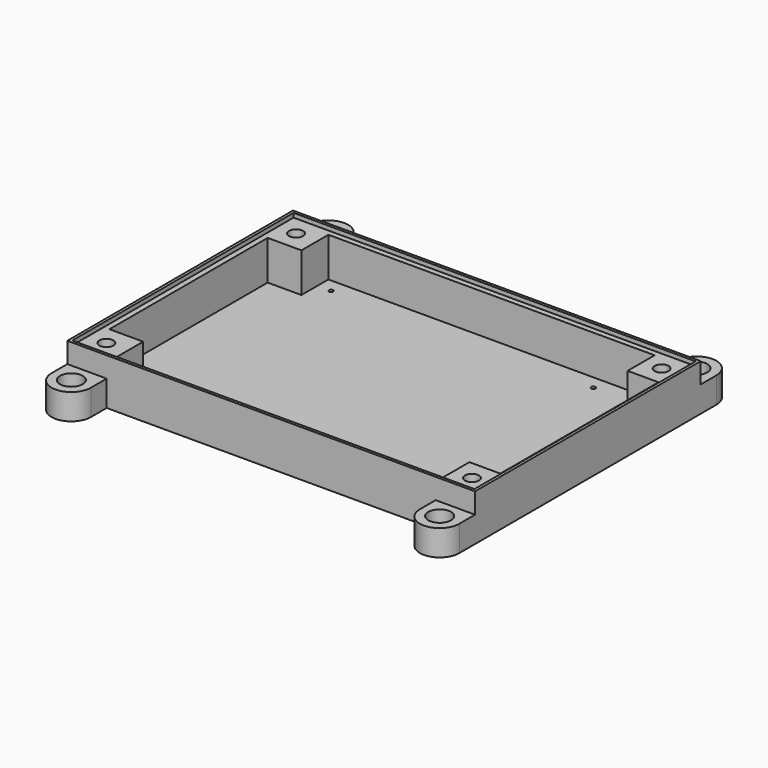
from build123d import *

# Parameters (mm, degrees)
CYLINDER034_R     = 0.75
CYLINDER034_DEPTH = 23
ARRAY041_X_COUNT  = 2
ARRAY041_X_PITCH  = 93.2688
ARRAY041_Y_COUNT  = 2
ARRAY041_Y_PITCH  = 80.5688
BOX023_W          = 139.06
BOX023_H          = 70.36
BOX023_DEPTH      = 16
CYLINDER033_R     = 5.4
CYLINDER033_DEPTH = 7.4
ARRAY040_X_COUNT  = 2
ARRAY040_X_PITCH  = 130.06
ARRAY040_Y_COUNT  = 2
ARRAY040_Y_PITCH  = 84.36
ARRAY039_X_COUNT  = 2
ARRAY039_X_PITCH  = 130.06
ARRAY039_Y_COUNT  = 2
ARRAY039_Y_PITCH  = 84.36
BOX022_W          = 116.06
BOX022_H          = 94.36
BOX022_DEPTH      = 10
CYLINDER025_R     = 1.5
CYLINDER025_DEPTH = 9
ARRAY032_X_COUNT  = 2
ARRAY032_X_PITCH  = 131.06
ARRAY032_Y_COUNT  = 2
ARRAY032_Y_PITCH  = 113.96
CYLINDER026_R     = 4.05
CYLINDER026_DEPTH = 5.4
ARRAY033_X_COUNT  = 2
ARRAY033_X_PITCH  = 131.06
ARRAY033_Y_COUNT  = 2
ARRAY033_Y_PITCH  = 113.96
CYLINDER024_R     = 1
CYLINDER024_DEPTH = 30
ARRAY031_X_COUNT  = 2
ARRAY031_X_PITCH  = 93.2688
ARRAY031_Y_COUNT  = 2
ARRAY031_Y_PITCH  = 80.5688
ARRAY029_X_COUNT  = 2
ARRAY029_X_PITCH  = 93.2688
ARRAY029_Y_COUNT  = 2
ARRAY029_Y_PITCH  = 80.5688
ARRAY028_X_COUNT  = 2
ARRAY028_X_PITCH  = 130.06
ARRAY028_Y_COUNT  = 2
ARRAY028_Y_PITCH  = 84.36
CYLINDER022_R     = 4.02
CYLINDER022_DEPTH = 7.4
ARRAY026_X_COUNT  = 2
ARRAY026_X_PITCH  = 130.06
ARRAY026_Y_COUNT  = 2
ARRAY026_Y_PITCH  = 84.36
CYLINDER018_R     = 4.05
CYLINDER018_DEPTH = 5.4
ARRAY021_X_COUNT  = 2
ARRAY021_X_PITCH  = 131.06
ARRAY021_Y_COUNT  = 2
ARRAY021_Y_PITCH  = 110.36
CYLINDER021_R     = 2.15
CYLINDER021_DEPTH = 3.8
ARRAY025_X_COUNT  = 2
ARRAY025_X_PITCH  = 130.06
ARRAY025_Y_COUNT  = 2
ARRAY025_Y_PITCH  = 84.36
CYLINDER020_R     = 2.5
CYLINDER020_DEPTH = 40
ARRAY024_X_COUNT  = 2
ARRAY024_X_PITCH  = 130.06
ARRAY024_Y_COUNT  = 2
ARRAY024_Y_PITCH  = 84.36
CYLINDER019_R     = 2.5
CYLINDER019_DEPTH = 10
ARRAY022_X_COUNT  = 2
ARRAY022_X_PITCH  = 131.06
ARRAY022_Y_COUNT  = 2
ARRAY022_Y_PITCH  = 110.36
ARRAY020_X_COUNT  = 2
ARRAY020_X_PITCH  = 131.06
ARRAY020_Y_COUNT  = 2
ARRAY020_Y_PITCH  = 110.36
CYLINDER017_R     = 3.05
CYLINDER017_DEPTH = 3
ARRAY018_X_COUNT  = 2
ARRAY018_X_PITCH  = 93.2688
ARRAY018_Y_COUNT  = 2
ARRAY018_Y_PITCH  = 80.5688
CYLINDER016_R     = 1
CYLINDER016_DEPTH = 30
ARRAY017_X_COUNT  = 2
ARRAY017_X_PITCH  = 93.2688
ARRAY017_Y_COUNT  = 2
ARRAY017_Y_PITCH  = 80.5688
BOX016_W          = 100
BOX016_H          = 94.36
BOX016_DEPTH      = 10
ARRAY014_X_COUNT  = 2
ARRAY014_X_PITCH  = 131.06
ARRAY014_Y_COUNT  = 2
ARRAY014_Y_PITCH  = 110.36
CYLINDER014_R     = 2.2
CYLINDER014_DEPTH = 4
ARRAY015_X_COUNT  = 2
ARRAY015_X_PITCH  = 131.06
ARRAY015_Y_COUNT  = 2
ARRAY015_Y_PITCH  = 110.36
CYLINDER013_R     = 1.25
CYLINDER013_DEPTH = 10
ARRAY013_X_COUNT  = 2
ARRAY013_X_PITCH  = 131.06
ARRAY013_Y_COUNT  = 2
ARRAY013_Y_PITCH  = 110.36
BOX015_W          = 14
BOX015_H          = 7
BOX015_DEPTH      = 9.2
CYLINDER012_R     = 7
CYLINDER012_DEPTH = 9.2
ARRAY010_X_COUNT  = 2
ARRAY010_X_PITCH  = 131.06
BOX014_W          = 14
BOX014_H          = 7
BOX014_DEPTH      = 9.2
CYLINDER011_R     = 7
CYLINDER011_DEPTH = 9.2
ARRAY011_X_COUNT  = 2
ARRAY011_X_PITCH  = 131.06
CYLINDER_R        = 1.75
CYLINDER_DEPTH    = 40
CYLINDER001_R     = 4.5
CYLINDER001_DEPTH = 1
ARRAY001_X_COUNT  = 2
ARRAY001_X_PITCH  = 130.06
ARRAY001_Y_COUNT  = 2
ARRAY001_Y_PITCH  = 84.36
BOX004_W          = 11
BOX004_H          = 98
BOX004_DEPTH      = 15
BOX003_W          = 7
BOX003_H          = 10
BOX003_DEPTH      = 9
ARRAY_X_COUNT     = 2
ARRAY_X_PITCH     = 77.06
ARRAY_Y_COUNT     = 2
ARRAY_Y_PITCH     = 90.36
BOX002_W          = 118.06
BOX002_H          = 94.36
BOX002_DEPTH      = 12
BOX_W             = 145.06
BOX_H             = 100.36
BOX_DEPTH         = 15
BOX008_W          = 145.06
BOX008_H          = 1
BOX008_DEPTH      = 2.5
ARRAY004_Y_COUNT  = 2
ARRAY004_Y_PITCH  = 99.36
BOX009_W          = 1
BOX009_H          = 100.36
BOX009_DEPTH      = 2.5
ARRAY005_X_COUNT  = 2
ARRAY005_X_PITCH  = 144.06
BOX019_W          = 12
BOX019_H          = 98
BOX019_DEPTH      = 10
ARRAY023_X_COUNT  = 2
ARRAY023_X_PITCH  = 130
CYLINDER023_R     = 3.05
CYLINDER023_DEPTH = 3
ARRAY030_X_COUNT  = 2
ARRAY030_X_PITCH  = 93.2688
ARRAY030_Y_COUNT  = 2
ARRAY030_Y_PITCH  = 80.5688
BOX020_W          = 14
BOX020_H          = 9
BOX020_DEPTH      = 9.2
CYLINDER027_R     = 7
CYLINDER027_DEPTH = 9.2
ARRAY034_X_COUNT  = 2
ARRAY034_X_PITCH  = 131.06
BOX021_W          = 14
BOX021_H          = 9
BOX021_DEPTH      = 9.2
CYLINDER028_R     = 7
CYLINDER028_DEPTH = 9.2
ARRAY035_X_COUNT  = 2
ARRAY035_X_PITCH  = 131.06
CYLINDER029_R     = 1
CYLINDER029_DEPTH = 1
ARRAY036_X_COUNT  = 2
ARRAY036_X_PITCH  = 93.2688
ARRAY036_Y_COUNT  = 2
ARRAY036_Y_PITCH  = 80.5688
CYLINDER030_R     = 0.75
CYLINDER030_DEPTH = 14
ARRAY037_X_COUNT  = 2
ARRAY037_X_PITCH  = 93.2688
ARRAY037_Y_COUNT  = 2
ARRAY037_Y_PITCH  = 80.5688
ARRAY038_X_COUNT  = 2
ARRAY038_X_PITCH  = 93.2688
ARRAY038_Y_COUNT  = 2
ARRAY038_Y_PITCH  = 80.5688


with BuildPart() as array_holes_pcb_bottom_case004:
    # Cylinder034 → Cylinder034 (new body)
    with BuildSketch(Plane(origin=(15.8956, 11.8956, -6), x_dir=(1, 0, 0), z_dir=(0, 0, 1))):
        Circle(CYLINDER034_R)
    extrude(amount=CYLINDER034_DEPTH)

    # Array041 X: array_holes_PCB_bottom_case004 ×2


with BuildPart() as array_holes_pcb_bottom_case004_1:
    add(array_holes_pcb_bottom_case004.part)
    with Locations(*[(i * ARRAY041_X_PITCH, 0, 0) for i in range(1, ARRAY041_X_COUNT)]):
        add(array_holes_pcb_bottom_case004.part)

    # Array041 Y: array_holes_PCB_bottom_case004 ×2


with BuildPart() as array_holes_pcb_bottom_case004_2:
    add(array_holes_pcb_bottom_case004_1.part)
    with Locations(*[(0, i * ARRAY041_Y_PITCH, 0) for i in range(1, ARRAY041_Y_COUNT)]):
        add(array_holes_pcb_bottom_case004_1.part)


with BuildPart() as cube002:
    # Box023 → Box023 (new body)
    with BuildSketch(Plane(origin=(-1, 15, 1), x_dir=(1, 0, 0), z_dir=(0, 0, 1))):
        with Locations((69.53, 35.18)):
            Rectangle(BOX023_W, BOX023_H)
    extrude(amount=BOX023_DEPTH)


with BuildPart() as array040:
    # Cylinder033 → Cylinder033 (new body)
    with BuildSketch(Plane(origin=(3.5, 8, -3), x_dir=(1, 0, 0), z_dir=(0, 0, 1))):
        Circle(CYLINDER033_R)
    extrude(amount=CYLINDER033_DEPTH)

    # Array040 X: Array040 ×2


with BuildPart() as array040_1:
    add(array040.part)
    with Locations(*[(i * ARRAY040_X_PITCH, 0, 0) for i in range(1, ARRAY040_X_COUNT)]):
        add(array040.part)

    # Array040 Y: Array040 ×2


with BuildPart() as array040_2:
    add(array040_1.part)
    with Locations(*[(0, i * ARRAY040_Y_PITCH, 0) for i in range(1, ARRAY040_Y_COUNT)]):
        add(array040_1.part)


with BuildPart() as array039:
    # Cone007 → Cone007 (revolve)
    with BuildSketch(Plane(origin=(3.5, 8, 4.4), x_dir=(1, 0, 0), z_dir=(0, -1, 0))):
        Polygon((0, 0), (5.4, 0), (4.02, 1), (0, 1), align=None)
    revolve(axis=Axis((3.5, 8, 4.4), (0, 0, 1)))

    # Array039 X: Array039 ×2


with BuildPart() as array039_1:
    add(array039.part)
    with Locations(*[(i * ARRAY039_X_PITCH, 0, 0) for i in range(1, ARRAY039_X_COUNT)]):
        add(array039.part)

    # Array039 Y: Array039 ×2


with BuildPart() as array039_2:
    add(array039_1.part)
    with Locations(*[(0, i * ARRAY039_Y_PITCH, 0) for i in range(1, ARRAY039_Y_COUNT)]):
        add(array039_1.part)


with BuildPart() as cube001:
    # Box022 → Box022 (new body)
    with BuildSketch(Plane(origin=(11, 3, 1), x_dir=(1, 0, 0), z_dir=(0, 0, 1))):
        with Locations((58.03, 47.18)):
            Rectangle(BOX022_W, BOX022_H)
    extrude(amount=BOX022_DEPTH)


with BuildPart() as obj1:
    # Cylinder025 → Cylinder025 (new body)
    with BuildSketch(Plane(origin=(2.87, -6.8, -2), x_dir=(1, 0, 0), z_dir=(0, 0, 1))):
        Circle(CYLINDER025_R)
    extrude(amount=CYLINDER025_DEPTH)

    # Array032 X: obj1_2


with BuildPart() as obj1_1:
    add(obj1.part)
    with Locations(*[(i * ARRAY032_X_PITCH, 0, 0) for i in range(1, ARRAY032_X_COUNT)]):
        add(obj1.part)

    # Array032 Y: obj1_2


with BuildPart() as obj1_2:
    add(obj1_1.part)
    with Locations(*[(0, i * ARRAY032_Y_PITCH, 0) for i in range(1, ARRAY032_Y_COUNT)]):
        add(obj1_1.part)


with BuildPart() as obj2:
    # Cylinder026 → Cylinder026 (new body)
    with BuildSketch(Plane(origin=(2.87, -6.8, 3.9), x_dir=(1, 0, 0), z_dir=(0, 0, 1))):
        Circle(CYLINDER026_R)
    extrude(amount=CYLINDER026_DEPTH)

    # Array033 X: obj2_2


with BuildPart() as obj2_1:
    add(obj2.part)
    with Locations(*[(i * ARRAY033_X_PITCH, 0, 0) for i in range(1, ARRAY033_X_COUNT)]):
        add(obj2.part)

    # Array033 Y: obj2_2


with BuildPart() as obj2_2:
    add(obj2_1.part)
    with Locations(*[(0, i * ARRAY033_Y_PITCH, 0) for i in range(1, ARRAY033_Y_COUNT)]):
        add(obj2_1.part)


with BuildPart() as array_holes_pcb_bottom_case001:
    # Cylinder024 → Cylinder024 (new body)
    with BuildSketch(Plane(origin=(15.8956, 9.8956, -12), x_dir=(1, 0, 0), z_dir=(0, 0, 1))):
        Circle(CYLINDER024_R)
    extrude(amount=CYLINDER024_DEPTH)

    # Array031 X: array_holes_PCB_bottom_case001 ×2


with BuildPart() as array_holes_pcb_bottom_case001_1:
    add(array_holes_pcb_bottom_case001.part)
    with Locations(*[(i * ARRAY031_X_PITCH, 0, 0) for i in range(1, ARRAY031_X_COUNT)]):
        add(array_holes_pcb_bottom_case001.part)

    # Array031 Y: array_holes_PCB_bottom_case001 ×2


with BuildPart() as array_holes_pcb_bottom_case001_2:
    add(array_holes_pcb_bottom_case001_1.part)
    with Locations(*[(0, i * ARRAY031_Y_PITCH, 0) for i in range(1, ARRAY031_Y_COUNT)]):
        add(array_holes_pcb_bottom_case001_1.part)


with BuildPart() as array029:
    # Cone005 → Cone005 (revolve)
    with BuildSketch(Plane(origin=(15.8956, 9.8956, 1.8), x_dir=(1, 0, 0), z_dir=(0, -1, 0))):
        Polygon((0, 0), (3.05, 0), (1, 0.5), (0, 0.5), align=None)
    revolve(axis=Axis((15.8956, 9.8956, 1.8), (0, 0, 1)))

    # Array029 X: Array029 ×2


with BuildPart() as array029_1:
    add(array029.part)
    with Locations(*[(i * ARRAY029_X_PITCH, 0, 0) for i in range(1, ARRAY029_X_COUNT)]):
        add(array029.part)

    # Array029 Y: Array029 ×2


with BuildPart() as array029_2:
    add(array029_1.part)
    with Locations(*[(0, i * ARRAY029_Y_PITCH, 0) for i in range(1, ARRAY029_Y_COUNT)]):
        add(array029_1.part)


with BuildPart() as array028:
    # Cone004 → Cone004 (revolve)
    with BuildSketch(Plane(origin=(3.5, 8, 7.4), x_dir=(1, 0, 0), z_dir=(0, -1, 0))):
        Polygon((0, 0), (4.02, 0), (2.5, 1), (0, 1), align=None)
    revolve(axis=Axis((3.5, 8, 7.4), (0, 0, 1)))

    # Array028 X: Array028 ×2


with BuildPart() as array028_1:
    add(array028.part)
    with Locations(*[(i * ARRAY028_X_PITCH, 0, 0) for i in range(1, ARRAY028_X_COUNT)]):
        add(array028.part)

    # Array028 Y: Array028 ×2


with BuildPart() as array028_2:
    add(array028_1.part)
    with Locations(*[(0, i * ARRAY028_Y_PITCH, 0) for i in range(1, ARRAY028_Y_COUNT)]):
        add(array028_1.part)


with BuildPart() as array026:
    # Cylinder022 → Cylinder022 (new body)
    with BuildSketch(Plane(origin=(3.5, 8, 0), x_dir=(1, 0, 0), z_dir=(0, 0, 1))):
        Circle(CYLINDER022_R)
    extrude(amount=CYLINDER022_DEPTH)

    # Array026 X: Array026 ×2


with BuildPart() as array026_1:
    add(array026.part)
    with Locations(*[(i * ARRAY026_X_PITCH, 0, 0) for i in range(1, ARRAY026_X_COUNT)]):
        add(array026.part)

    # Array026 Y: Array026 ×2


with BuildPart() as array026_2:
    add(array026_1.part)
    with Locations(*[(0, i * ARRAY026_Y_PITCH, 0) for i in range(1, ARRAY026_Y_COUNT)]):
        add(array026_1.part)


with BuildPart() as obj3:
    # Cylinder018 → Cylinder018 (new body)
    with BuildSketch(Plane(origin=(2.87, -4.8, 3.9), x_dir=(1, 0, 0), z_dir=(0, 0, 1))):
        Circle(CYLINDER018_R)
    extrude(amount=CYLINDER018_DEPTH)

    # Array021 X: obj3_2


with BuildPart() as obj3_1:
    add(obj3.part)
    with Locations(*[(i * ARRAY021_X_PITCH, 0, 0) for i in range(1, ARRAY021_X_COUNT)]):
        add(obj3.part)

    # Array021 Y: obj3_2


with BuildPart() as obj3_2:
    add(obj3_1.part)
    with Locations(*[(0, i * ARRAY021_Y_PITCH, 0) for i in range(1, ARRAY021_Y_COUNT)]):
        add(obj3_1.part)


with BuildPart() as array025:
    # Cylinder021 → Cylinder021 (new body)
    with BuildSketch(Plane(origin=(3.5, 8, 0), x_dir=(1, 0, 0), z_dir=(0, 0, 1))):
        Circle(CYLINDER021_R)
    extrude(amount=CYLINDER021_DEPTH)

    # Array025 X: Array025 ×2


with BuildPart() as array025_1:
    add(array025.part)
    with Locations(*[(i * ARRAY025_X_PITCH, 0, 0) for i in range(1, ARRAY025_X_COUNT)]):
        add(array025.part)

    # Array025 Y: Array025 ×2


with BuildPart() as array025_2:
    add(array025_1.part)
    with Locations(*[(0, i * ARRAY025_Y_PITCH, 0) for i in range(1, ARRAY025_Y_COUNT)]):
        add(array025_1.part)


with BuildPart() as array024:
    # Cylinder020 → Cylinder020 (new body)
    with BuildSketch(Plane(origin=(3.5, 8, -16), x_dir=(1, 0, 0), z_dir=(0, 0, 1))):
        Circle(CYLINDER020_R)
    extrude(amount=CYLINDER020_DEPTH)

    # Array024 X: Array024 ×2


with BuildPart() as array024_1:
    add(array024.part)
    with Locations(*[(i * ARRAY024_X_PITCH, 0, 0) for i in range(1, ARRAY024_X_COUNT)]):
        add(array024.part)

    # Array024 Y: Array024 ×2


with BuildPart() as array024_2:
    add(array024_1.part)
    with Locations(*[(0, i * ARRAY024_Y_PITCH, 0) for i in range(1, ARRAY024_Y_COUNT)]):
        add(array024_1.part)


with BuildPart() as obj4:
    # Cylinder019 → Cylinder019 (new body)
    with BuildSketch(Plane(origin=(2.87, -4.8, -2), x_dir=(1, 0, 0), z_dir=(0, 0, 1))):
        Circle(CYLINDER019_R)
    extrude(amount=CYLINDER019_DEPTH)

    # Array022 X: obj4_2


with BuildPart() as obj4_1:
    add(obj4.part)
    with Locations(*[(i * ARRAY022_X_PITCH, 0, 0) for i in range(1, ARRAY022_X_COUNT)]):
        add(obj4.part)

    # Array022 Y: obj4_2


with BuildPart() as obj4_2:
    add(obj4_1.part)
    with Locations(*[(0, i * ARRAY022_Y_PITCH, 0) for i in range(1, ARRAY022_Y_COUNT)]):
        add(obj4_1.part)


with BuildPart() as obj5:
    # Cone003 → Cone003 (revolve)
    with BuildSketch(Plane(origin=(2.87, -4.8, 2.98), x_dir=(1, 0, 0), z_dir=(0, -1, 0))):
        Polygon((0, 0), (1.25, 0), (2.9, 1.8), (0, 1.8), align=None)
    revolve(axis=Axis((2.87, -4.8, 2.98), (0, 0, 1)))

    # Array020 X: obj5_2


with BuildPart() as obj5_1:
    add(obj5.part)
    with Locations(*[(i * ARRAY020_X_PITCH, 0, 0) for i in range(1, ARRAY020_X_COUNT)]):
        add(obj5.part)

    # Array020 Y: obj5_2


with BuildPart() as obj5_2:
    add(obj5_1.part)
    with Locations(*[(0, i * ARRAY020_Y_PITCH, 0) for i in range(1, ARRAY020_Y_COUNT)]):
        add(obj5_1.part)


with BuildPart() as array_holes_complementary_pcb:
    # Cylinder017 → Cylinder017 (new body)
    with BuildSketch(Plane(origin=(15.8956, 9.8956, 0), x_dir=(1, 0, 0), z_dir=(0, 0, 1))):
        Circle(CYLINDER017_R)
    extrude(amount=CYLINDER017_DEPTH)

    # Array018 X: array_holes_complementary_PCB ×2


with BuildPart() as array_holes_complementary_pcb_1:
    add(array_holes_complementary_pcb.part)
    with Locations(*[(i * ARRAY018_X_PITCH, 0, 0) for i in range(1, ARRAY018_X_COUNT)]):
        add(array_holes_complementary_pcb.part)

    # Array018 Y: array_holes_complementary_PCB ×2


with BuildPart() as array_holes_complementary_pcb_2:
    add(array_holes_complementary_pcb_1.part)
    with Locations(*[(0, i * ARRAY018_Y_PITCH, 0) for i in range(1, ARRAY018_Y_COUNT)]):
        add(array_holes_complementary_pcb_1.part)


with BuildPart() as array_holes_pcb_bottom_case:
    # Cylinder016 → Cylinder016 (new body)
    with BuildSketch(Plane(origin=(15.8956, 9.8956, -12), x_dir=(1, 0, 0), z_dir=(0, 0, 1))):
        Circle(CYLINDER016_R)
    extrude(amount=CYLINDER016_DEPTH)

    # Array017 X: array_holes_PCB_bottom_case ×2


with BuildPart() as array_holes_pcb_bottom_case_1:
    add(array_holes_pcb_bottom_case.part)
    with Locations(*[(i * ARRAY017_X_PITCH, 0, 0) for i in range(1, ARRAY017_X_COUNT)]):
        add(array_holes_pcb_bottom_case.part)

    # Array017 Y: array_holes_PCB_bottom_case ×2


with BuildPart() as array_holes_pcb_bottom_case_2:
    add(array_holes_pcb_bottom_case_1.part)
    with Locations(*[(0, i * ARRAY017_Y_PITCH, 0) for i in range(1, ARRAY017_Y_COUNT)]):
        add(array_holes_pcb_bottom_case_1.part)


with BuildPart() as erase_supports_bottom:
    # Box016 → Box016 (new body)
    with BuildSketch(Plane(origin=(11, 3, 3), x_dir=(1, 0, 0), z_dir=(0, 0, 1))):
        with Locations((50, 47.18)):
            Rectangle(BOX016_W, BOX016_H)
    extrude(amount=BOX016_DEPTH)


with BuildPart() as obj6:
    # Cone001 → Cone001 (revolve)
    with BuildSketch(Plane(origin=(2.87, -4.8, 2.98), x_dir=(1, 0, 0), z_dir=(0, -1, 0))):
        Polygon((0, 0), (1.25, 0), (2.9, 1.8), (0, 1.8), align=None)
    revolve(axis=Axis((2.87, -4.8, 2.98), (0, 0, 1)))

    # Array014 X: obj6_2


with BuildPart() as obj6_1:
    add(obj6.part)
    with Locations(*[(i * ARRAY014_X_PITCH, 0, 0) for i in range(1, ARRAY014_X_COUNT)]):
        add(obj6.part)

    # Array014 Y: obj6_2


with BuildPart() as obj6_2:
    add(obj6_1.part)
    with Locations(*[(0, i * ARRAY014_Y_PITCH, 0) for i in range(1, ARRAY014_Y_COUNT)]):
        add(obj6_1.part)


with BuildPart() as fusion013:
    # Cylinder014 → Cylinder014 (new body)
    with BuildSketch(Plane(origin=(2.87, -4.8, 6.48), x_dir=(1, 0, 0), z_dir=(0, 0, 1))):
        Circle(CYLINDER014_R)
    extrude(amount=CYLINDER014_DEPTH)

    # Array015 X: Fusion013 ×2


with BuildPart() as fusion013_1:
    add(fusion013.part)
    with Locations(*[(i * ARRAY015_X_PITCH, 0, 0) for i in range(1, ARRAY015_X_COUNT)]):
        add(fusion013.part)

    # Array015 Y: Fusion013 ×2


with BuildPart() as fusion013_2:
    add(fusion013_1.part)
    with Locations(*[(0, i * ARRAY015_Y_PITCH, 0) for i in range(1, ARRAY015_Y_COUNT)]):
        add(fusion013_1.part)

    # Fusion013: union obj6
    add(obj6_2.part)


with BuildPart() as obj7:
    # Cylinder013 → Cylinder013 (new body)
    with BuildSketch(Plane(origin=(2.87, -4.8, -2), x_dir=(1, 0, 0), z_dir=(0, 0, 1))):
        Circle(CYLINDER013_R)
    extrude(amount=CYLINDER013_DEPTH)

    # Array013 X: obj7_2


with BuildPart() as obj7_1:
    add(obj7.part)
    with Locations(*[(i * ARRAY013_X_PITCH, 0, 0) for i in range(1, ARRAY013_X_COUNT)]):
        add(obj7.part)

    # Array013 Y: obj7_2


with BuildPart() as obj7_2:
    add(obj7_1.part)
    with Locations(*[(0, i * ARRAY013_Y_PITCH, 0) for i in range(1, ARRAY013_Y_COUNT)]):
        add(obj7_1.part)


with BuildPart() as cube_fix2:
    # Box015 → Box015 (new body)
    with BuildSketch(Plane(origin=(-4, 98.36, 0), x_dir=(1, 0, 0), z_dir=(0, 0, 1))):
        with Locations((7, 3.5)):
            Rectangle(BOX015_W, BOX015_H)
    extrude(amount=BOX015_DEPTH)


with BuildPart() as array_fix2:
    # Cylinder012 → Cylinder012 (new body)
    with BuildSketch(Plane(origin=(3, 105.36, 0), x_dir=(1, 0, 0), z_dir=(0, 0, 1))):
        Circle(CYLINDER012_R)
    extrude(amount=CYLINDER012_DEPTH)

    # Fusion011: union cube_fix2
    add(cube_fix2.part)

    # Array010 X: array_fix2 ×2


with BuildPart() as array_fix2_1:
    add(array_fix2.part)
    with Locations(*[(i * ARRAY010_X_PITCH, 0, 0) for i in range(1, ARRAY010_X_COUNT)]):
        add(array_fix2.part)


with BuildPart() as cube_fix1:
    # Box014 → Box014 (new body)
    with BuildSketch(Plane(origin=(-4, -5, 0), x_dir=(1, 0, 0), z_dir=(0, 0, 1))):
        with Locations((7, 3.5)):
            Rectangle(BOX014_W, BOX014_H)
    extrude(amount=BOX014_DEPTH)


with BuildPart() as array_fix1:
    # Cylinder011 → Cylinder011 (new body)
    with BuildSketch(Plane(origin=(3, -5, 0), x_dir=(1, 0, 0), z_dir=(0, 0, 1))):
        Circle(CYLINDER011_R)
    extrude(amount=CYLINDER011_DEPTH)

    # Fusion010: union cube_fix1
    add(cube_fix1.part)

    # Array011 X: array_fix1 ×2


with BuildPart() as array_fix1_1:
    add(array_fix1.part)
    with Locations(*[(i * ARRAY011_X_PITCH, 0, 0) for i in range(1, ARRAY011_X_COUNT)]):
        add(array_fix1.part)


with BuildPart() as cone:
    # Cone → Cone (revolve)
    with BuildSketch(Plane(origin=(3.5, 14, 1), x_dir=(1, 0, 0), z_dir=(0, -1, 0))):
        Polygon((0, 0), (4.5, 0), (1.75, 3), (0, 3), align=None)
    revolve(axis=Axis((3.5, 14, 1), (0, 0, 1)))


with BuildPart() as fusion002:
    # Cylinder → Cylinder (new body)
    with BuildSketch(Plane(origin=(3.5, 14, -16), x_dir=(1, 0, 0), z_dir=(0, 0, 1))):
        Circle(CYLINDER_R)
    extrude(amount=CYLINDER_DEPTH)

    # Fusion002: union Cone
    add(cone.part)


with BuildPart() as array_holes_bottom_case:
    # Cylinder001 → Cylinder001 (new body)
    with BuildSketch(Plane(origin=(3.5, 14, 0), x_dir=(1, 0, 0), z_dir=(0, 0, 1))):
        Circle(CYLINDER001_R)
    extrude(amount=CYLINDER001_DEPTH)

    # Fusion003: union Fusion002
    add(fusion002.part)


with BuildPart() as array_holes_bottom_case_1:
    # Fusion003 placement: moved
    add(array_holes_bottom_case.part.moved(Location((0, -6, 0))))

    # Array001 X: array_holes_bottom_case ×2


with BuildPart() as array_holes_bottom_case_2:
    add(array_holes_bottom_case_1.part)
    with Locations(*[(i * ARRAY001_X_PITCH, 0, 0) for i in range(1, ARRAY001_X_COUNT)]):
        add(array_holes_bottom_case_1.part)

    # Array001 Y: array_holes_bottom_case ×2


with BuildPart() as array_holes_bottom_case_3:
    add(array_holes_bottom_case_2.part)
    with Locations(*[(0, i * ARRAY001_Y_PITCH, 0) for i in range(1, ARRAY001_Y_COUNT)]):
        add(array_holes_bottom_case_2.part)


with BuildPart() as correcting_pcb_support:
    # Box004 → Box004 (new body)
    with BuildSketch(Plane.XY):
        with Locations((5.5, 49)):
            Rectangle(BOX004_W, BOX004_H)
    extrude(amount=BOX004_DEPTH)


with BuildPart() as array_bottom_case_support_master:
    # Box003 → Box003 (new body)
    with BuildSketch(Plane(origin=(18.5, 0, 0), x_dir=(1, 0, 0), z_dir=(0, 0, 1))):
        with Locations((3.5, 5)):
            Rectangle(BOX003_W, BOX003_H)
    extrude(amount=BOX003_DEPTH)

    # Array X: array_bottom_case_support_master ×2


with BuildPart() as array_bottom_case_support_master_1:
    add(array_bottom_case_support_master.part)
    with Locations(*[(i * ARRAY_X_PITCH, 0, 0) for i in range(1, ARRAY_X_COUNT)]):
        add(array_bottom_case_support_master.part)

    # Array Y: array_bottom_case_support_master ×2


with BuildPart() as array_bottom_case_support_master_2:
    add(array_bottom_case_support_master_1.part)
    with Locations(*[(0, i * ARRAY_Y_PITCH, 0) for i in range(1, ARRAY_Y_COUNT)]):
        add(array_bottom_case_support_master_1.part)


with BuildPart() as bottom_case_master_emptying:
    # Box002 → Box002 (new body)
    with BuildSketch(Plane(origin=(9, 3, 3), x_dir=(1, 0, 0), z_dir=(0, 0, 1))):
        with Locations((59.03, 47.18)):
            Rectangle(BOX002_W, BOX002_H)
    extrude(amount=BOX002_DEPTH)


with BuildPart() as bottom_case:
    # Box → Box (new body)
    with BuildSketch(Plane(origin=(-4, 0, 0), x_dir=(1, 0, 0), z_dir=(0, 0, 1))):
        with Locations((72.53, 50.18)):
            Rectangle(BOX_W, BOX_H)
    extrude(amount=BOX_DEPTH)

    # Cut: cut bottom_case_master_emptying
    add(bottom_case_master_emptying.part, mode=Mode.SUBTRACT)

    # Fusion: union array_bottom_case_support_master
    add(array_bottom_case_support_master_2.part)

    # Fusion001: union correcting_PCB_support
    add(correcting_pcb_support.part)

    # Cut001: cut array_holes_bottom_case
    add(array_holes_bottom_case_3.part, mode=Mode.SUBTRACT)


with BuildPart() as fusion005:
    # Box008 → Box008 (new body)
    with BuildSketch(Plane(origin=(-4, 0, 14), x_dir=(1, 0, 0), z_dir=(0, 0, 1))):
        with Locations((72.53, 0.5)):
            Rectangle(BOX008_W, BOX008_H)
    extrude(amount=BOX008_DEPTH)

    # Array004 Y: Fusion005 ×2


with BuildPart() as fusion005_1:
    add(fusion005.part)
    with Locations(*[(0, i * ARRAY004_Y_PITCH, 0) for i in range(1, ARRAY004_Y_COUNT)]):
        add(fusion005.part)

    # Fusion005: union bottom_case
    add(bottom_case.part)


with BuildPart() as cut019:
    # Box009 → Box009 (new body)
    with BuildSketch(Plane(origin=(-4, 0, 14), x_dir=(1, 0, 0), z_dir=(0, 0, 1))):
        with Locations((0.5, 50.18)):
            Rectangle(BOX009_W, BOX009_H)
    extrude(amount=BOX009_DEPTH)

    # Array005 X: Cut019 ×2


with BuildPart() as cut019_1:
    add(cut019.part)
    with Locations(*[(i * ARRAY005_X_PITCH, 0, 0) for i in range(1, ARRAY005_X_COUNT)]):
        add(cut019.part)

    # Fusion006: union Fusion005
    add(fusion005_1.part)

    # Fusion012: union array_fix2, array_fix1
    add(array_fix2_1.part)
    add(array_fix1_1.part)

    # Cut012: cut obj7
    add(obj7_2.part, mode=Mode.SUBTRACT)

    # Cut013: cut Fusion013
    add(fusion013_2.part, mode=Mode.SUBTRACT)

    # Cut014: cut erase_supports_bottom
    add(erase_supports_bottom.part, mode=Mode.SUBTRACT)

    # Cut017: cut array_holes_PCB_bottom_case
    add(array_holes_pcb_bottom_case_2.part, mode=Mode.SUBTRACT)

    # Cut018: cut array_holes_complementary_PCB
    add(array_holes_complementary_pcb_2.part, mode=Mode.SUBTRACT)

    # Fusion014: union obj5
    add(obj5_2.part)

    # Fusion015: union obj3
    add(obj3_2.part)

    # Cut019: cut obj4
    add(obj4_2.part, mode=Mode.SUBTRACT)


with BuildPart() as bottom_case_finished:
    # Box019 → Box019 (new body)
    with BuildSketch(Plane(origin=(-2, 0, 0), x_dir=(1, 0, 0), z_dir=(0, 0, 1))):
        with Locations((6, 49)):
            Rectangle(BOX019_W, BOX019_H)
    extrude(amount=BOX019_DEPTH)

    # Array023 X: bottom_case_finished ×2


with BuildPart() as bottom_case_finished_1:
    add(bottom_case_finished.part)
    with Locations(*[(i * ARRAY023_X_PITCH, 0, 0) for i in range(1, ARRAY023_X_COUNT)]):
        add(bottom_case_finished.part)

    # Fusion016: union Cut019
    add(cut019_1.part)

    # Cut020: cut Array024
    add(array024_2.part, mode=Mode.SUBTRACT)

    # Cut021: cut Array025
    add(array025_2.part, mode=Mode.SUBTRACT)

    # Cut022: cut obj3
    add(obj3_2.part, mode=Mode.SUBTRACT)

    # Cut023: cut Array026
    add(array026_2.part, mode=Mode.SUBTRACT)

    # Cut025: cut Array028
    add(array028_2.part, mode=Mode.SUBTRACT)

    # Cut026: cut Array029
    add(array029_2.part, mode=Mode.SUBTRACT)


with BuildPart() as cut027:
    # Cylinder023 → Cylinder023 (new body)
    with BuildSketch(Plane(origin=(15.8956, 9.8956, 0), x_dir=(1, 0, 0), z_dir=(0, 0, 1))):
        Circle(CYLINDER023_R)
    extrude(amount=CYLINDER023_DEPTH)

    # Array030 X: Cut027 ×2


with BuildPart() as cut027_1:
    add(cut027.part)
    with Locations(*[(i * ARRAY030_X_PITCH, 0, 0) for i in range(1, ARRAY030_X_COUNT)]):
        add(cut027.part)

    # Array030 Y: Cut027 ×2


with BuildPart() as cut027_2:
    add(cut027_1.part)
    with Locations(*[(0, i * ARRAY030_Y_PITCH, 0) for i in range(1, ARRAY030_Y_COUNT)]):
        add(cut027_1.part)

    # Fusion017: union bottom_case_finished
    add(bottom_case_finished_1.part)

    # Cut027: cut array_holes_PCB_bottom_case001
    add(array_holes_pcb_bottom_case001_2.part, mode=Mode.SUBTRACT)


with BuildPart() as cube_fix003:
    # Box020 → Box020 (new body)
    with BuildSketch(Plane(origin=(-4, 98.36, 0), x_dir=(1, 0, 0), z_dir=(0, 0, 1))):
        with Locations((7, 4.5)):
            Rectangle(BOX020_W, BOX020_H)
    extrude(amount=BOX020_DEPTH)


with BuildPart() as fusion020:
    # Cylinder027 → Cylinder027 (new body)
    with BuildSketch(Plane(origin=(3, 107.36, 0), x_dir=(1, 0, 0), z_dir=(0, 0, 1))):
        Circle(CYLINDER027_R)
    extrude(amount=CYLINDER027_DEPTH)

    # Fusion018: union cube_fix003
    add(cube_fix003.part)

    # Array034 X: Fusion020 ×2


with BuildPart() as fusion020_1:
    add(fusion020.part)
    with Locations(*[(i * ARRAY034_X_PITCH, 0, 0) for i in range(1, ARRAY034_X_COUNT)]):
        add(fusion020.part)

    # Fusion020: union Cut027
    add(cut027_2.part)


with BuildPart() as cube_fix004:
    # Box021 → Box021 (new body)
    with BuildSketch(Plane(origin=(-4, -7, 0), x_dir=(1, 0, 0), z_dir=(0, 0, 1))):
        with Locations((7, 4.5)):
            Rectangle(BOX021_W, BOX021_H)
    extrude(amount=BOX021_DEPTH)


with BuildPart() as bottom_case_holes:
    # Cylinder028 → Cylinder028 (new body)
    with BuildSketch(Plane(origin=(3, -7, 0), x_dir=(1, 0, 0), z_dir=(0, 0, 1))):
        Circle(CYLINDER028_R)
    extrude(amount=CYLINDER028_DEPTH)

    # Fusion019: union cube_fix004
    add(cube_fix004.part)

    # Array035 X: bottom_case_holes ×2


with BuildPart() as bottom_case_holes_1:
    add(bottom_case_holes.part)
    with Locations(*[(i * ARRAY035_X_PITCH, 0, 0) for i in range(1, ARRAY035_X_COUNT)]):
        add(bottom_case_holes.part)

    # Fusion021: union Fusion020
    add(fusion020_1.part)

    # Cut028: cut obj2
    add(obj2_2.part, mode=Mode.SUBTRACT)

    # Cut029: cut obj1
    add(obj1_2.part, mode=Mode.SUBTRACT)

    # Cut030: cut Cube001
    add(cube001.part, mode=Mode.SUBTRACT)


with BuildPart() as fusion022:
    # Cylinder029 → Cylinder029 (new body)
    with BuildSketch(Plane(origin=(15.8956, 9.8956, 0), x_dir=(1, 0, 0), z_dir=(0, 0, 1))):
        Circle(CYLINDER029_R)
    extrude(amount=CYLINDER029_DEPTH)

    # Array036 X: Fusion022 ×2


with BuildPart() as fusion022_1:
    add(fusion022.part)
    with Locations(*[(i * ARRAY036_X_PITCH, 0, 0) for i in range(1, ARRAY036_X_COUNT)]):
        add(fusion022.part)

    # Array036 Y: Fusion022 ×2


with BuildPart() as fusion022_2:
    add(fusion022_1.part)
    with Locations(*[(0, i * ARRAY036_Y_PITCH, 0) for i in range(1, ARRAY036_Y_COUNT)]):
        add(fusion022_1.part)

    # Fusion022: union bottom_case_holes
    add(bottom_case_holes_1.part)


with BuildPart() as bottom_case_sticks:
    # Cylinder030 → Cylinder030 (new body)
    with BuildSketch(Plane(origin=(15.8956, 11.8956, 0), x_dir=(1, 0, 0), z_dir=(0, 0, 1))):
        Circle(CYLINDER030_R)
    extrude(amount=CYLINDER030_DEPTH)

    # Array037 X: bottom_case_sticks ×2


with BuildPart() as bottom_case_sticks_1:
    add(bottom_case_sticks.part)
    with Locations(*[(i * ARRAY037_X_PITCH, 0, 0) for i in range(1, ARRAY037_X_COUNT)]):
        add(bottom_case_sticks.part)

    # Array037 Y: bottom_case_sticks ×2


with BuildPart() as bottom_case_sticks_2:
    add(bottom_case_sticks_1.part)
    with Locations(*[(0, i * ARRAY037_Y_PITCH, 0) for i in range(1, ARRAY037_Y_COUNT)]):
        add(bottom_case_sticks_1.part)

    # Fusion023: union Fusion022
    add(fusion022_2.part)


with BuildPart() as cut035:
    # Cone006 → Cone006 (revolve)
    with BuildSketch(Plane(origin=(15.8956, 11.8956, 14), x_dir=(1, 0, 0), z_dir=(0, -1, 0))):
        Polygon((0, 0), (0.75, 0), (0.1, 2), (0, 2), align=None)
    revolve(axis=Axis((15.8956, 11.8956, 14), (0, 0, 1)))

    # Array038 X: Cut035 ×2


with BuildPart() as cut035_1:
    add(cut035.part)
    with Locations(*[(i * ARRAY038_X_PITCH, 0, 0) for i in range(1, ARRAY038_X_COUNT)]):
        add(cut035.part)

    # Array038 Y: Cut035 ×2


with BuildPart() as cut035_2:
    add(cut035_1.part)
    with Locations(*[(0, i * ARRAY038_Y_PITCH, 0) for i in range(1, ARRAY038_Y_COUNT)]):
        add(cut035_1.part)

    # Fusion024: union bottom_case_sticks
    add(bottom_case_sticks_2.part)

    # Cut032: cut Array039
    add(array039_2.part, mode=Mode.SUBTRACT)

    # Cut033: cut Array040
    add(array040_2.part, mode=Mode.SUBTRACT)

    # Cut034: cut Cube002
    add(cube002.part, mode=Mode.SUBTRACT)

    # Cut035: cut array_holes_PCB_bottom_case004
    add(array_holes_pcb_bottom_case004_2.part, mode=Mode.SUBTRACT)


solid = cut035_2.part
